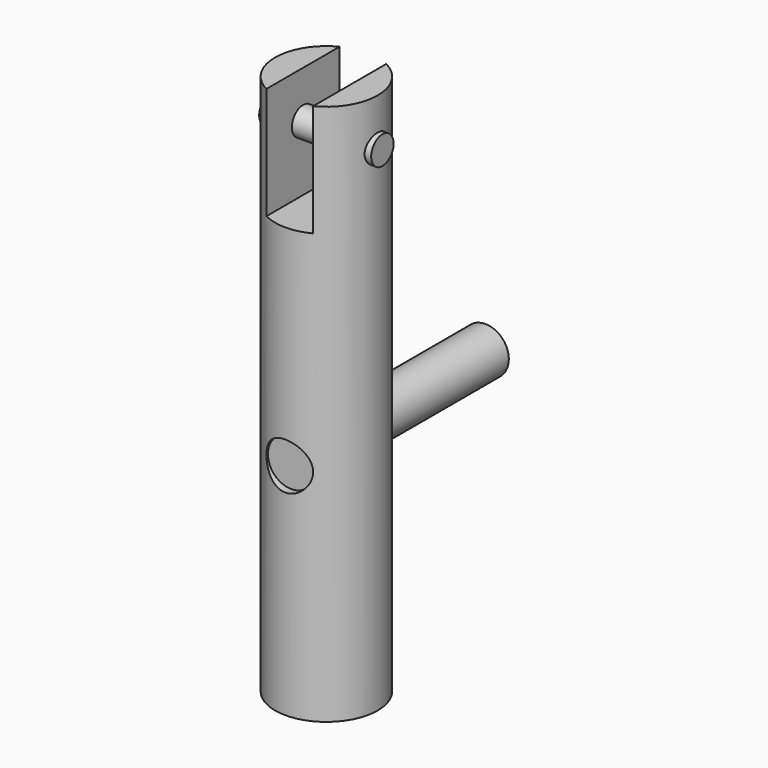
from build123d import *

# Parameters (mm, degrees)
F0_R           = 5.5
F1_DEPTH       = 58
F3_DEPTH       = 12
F5_R           = 1.5
F6_DEPTH       = 11.001
F7_DEPTH       = 0.5
F7_DEPTH_BACK  = 11.5
F9_R           = 2.5
F10_DEPTH      = 10.8010001
F11_DEPTH      = 16
F11_DEPTH_BACK = 10


with BuildPart() as f1:
    # F0 (on Top) → F1 (new body)
    with BuildSketch(Plane.XY):
        Circle(F0_R)
    extrude(amount=F1_DEPTH)

    # F2 (on face) → F3 (cut)
    with BuildSketch(Plane.XY.offset(58)):
        with BuildLine():
            ThreePointArc((2.5, 4.8989794856), (0, 5.5), (-2.5, 4.8989794856))
            Line((-2.5, 4.8989794856), (-2.5, -4.8989794856))
            ThreePointArc((-2.5, -4.8989794856), (0, -5.5), (2.5, -4.8989794856))
            Line((2.5, -4.8989794856), (2.5, 4.8989794856))
        make_face()
    extrude(amount=-F3_DEPTH, mode=Mode.SUBTRACT)

    # F5 (on offset) → F6 (cut, through all)
    with BuildSketch(Plane.YZ.offset(5.5)):
        with Locations((0, 53)):
            Circle(F5_R)
    extrude(amount=-F6_DEPTH, mode=Mode.SUBTRACT)

    # F9 (on offset) → F10 (cut, through all)
    with BuildSketch(Plane.XZ.offset(-5.3)):
        with Locations((0, 23.5)):
            Circle(F9_R)
    extrude(amount=F10_DEPTH, mode=Mode.SUBTRACT)


with BuildPart() as f7:
    # F5 (on offset) → F7 (new body, two sides)
    with BuildSketch(Plane.YZ.offset(5.5)) as f7_sk:
        with Locations((0, 53)):
            Circle(F5_R)
    extrude(amount=F7_DEPTH)
    extrude(f7_sk.sketch, amount=-F7_DEPTH_BACK)


with BuildPart() as f11:
    # F9 (on offset) → F11 (new body, two sides)
    with BuildSketch(Plane.XZ.offset(-5.3)) as f11_sk:
        with Locations((0, 23.5)):
            Circle(F9_R)
    extrude(amount=-F11_DEPTH)
    extrude(f11_sk.sketch, amount=F11_DEPTH_BACK)


solid = Compound([f1.part, f7.part, f11.part])
